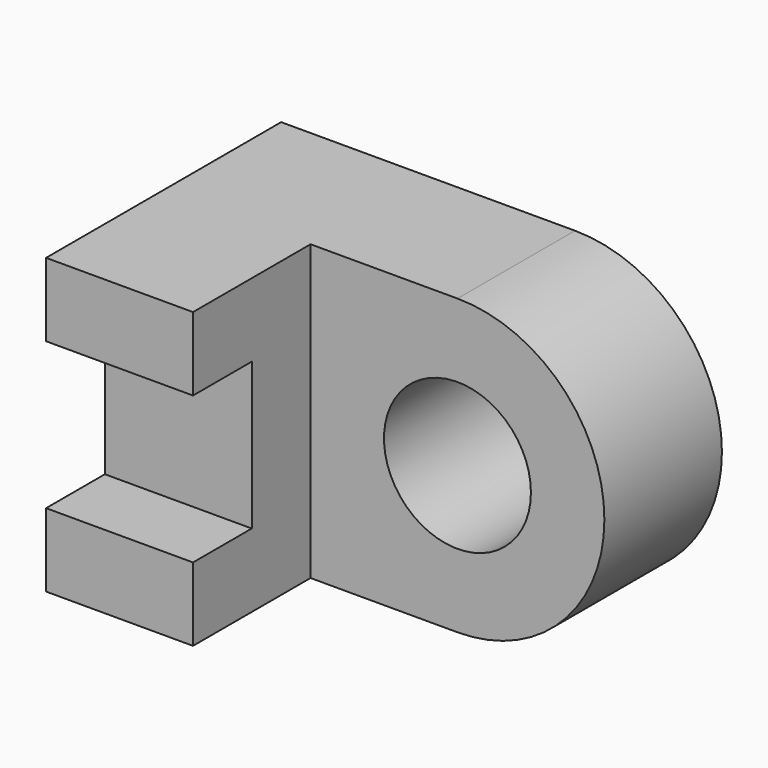
from build123d import *

# Parameters (mm, degrees)
F2_DEPTH = 12.7
F0_R     = 6.35
F3_DEPTH = 12.7


with BuildPart() as f2:
    # F1 (on Right) → F2 (new body)
    with BuildSketch(Plane.YZ):
        Polygon((-25.4, 0), (0, 0), (0, 25.4), (-25.4, 25.4), (-25.4, 19.05), (-19.05, 19.05), (-19.05, 6.35), (-25.4, 6.35), align=None)
    extrude(amount=F2_DEPTH)

    # F0 (on Front) → F3 (join)
    with BuildSketch(Plane.XZ):
        with BuildLine():
            Line((0, 25.4), (0, 0))
            Line((0, 0), (25.4, 0))
            ThreePointArc((25.4, 0), (38.1, 12.7), (25.4, 25.4))
            Line((25.4, 25.4), (0, 25.4))
        make_face()
        with Locations((25.4, 12.7)):
            Circle(F0_R, mode=Mode.SUBTRACT)
    extrude(amount=F3_DEPTH)


solid = f2.part
